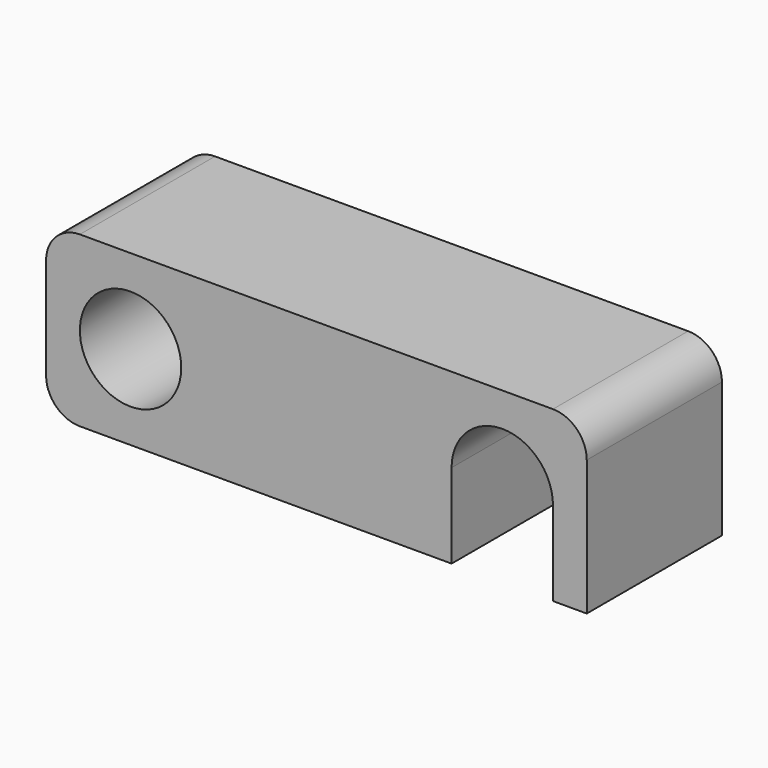
from build123d import *

# Parameters (mm, degrees)
F0_W     = 16
F0_H     = 5
F1_DEPTH = 5
F2_R     = 1.5
F3_DEPTH = 5.001
F4_R     = 1


with BuildPart() as f1:
    # F0 (on Front) → F1 (new body)
    with BuildSketch(Plane.XZ):
        with Locations((8, 2.5)):
            Rectangle(F0_W, F0_H)
    extrude(amount=F1_DEPTH)

    # F2 (on face) → F3 (cut, through all)
    with BuildSketch(Plane.XZ.offset(5)):
        with Locations((2.5, 2.5)):
            Circle(F2_R)
        with BuildLine():
            Line((15, 0), (15, 2.5))
            ThreePointArc((15, 2.5), (13.5, 4), (12, 2.5))
            Line((12, 2.5), (12, 0))
            Line((12, 0), (15, 0))
        make_face()
    extrude(amount=-F3_DEPTH, mode=Mode.SUBTRACT)

    # F4
    f4_edges = [f1.edges().sort_by_distance(p)[0] for p in [
        (0, -2.5, 0),
        (0, -2.5, 5),
        (16, -2.5, 5),
    ]]
    fillet(f4_edges, radius=F4_R)


solid = f1.part
